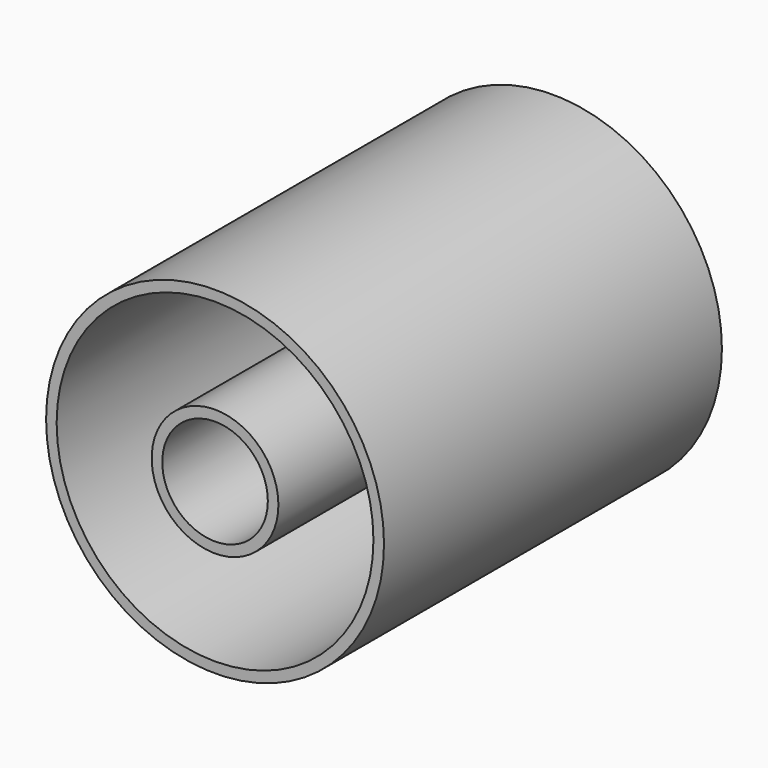
from build123d import *

# Parameters (mm, degrees)
F0_R     = 2032
F0_R_2   = 1905
F0_R_3   = 762
F0_R_4   = 635
F1_DEPTH = 5080


with BuildPart() as f1:
    # F0 (on Front) → F1 (new body)
    with BuildSketch(Plane.XZ):
        Circle(F0_R)
        Circle(F0_R_2, mode=Mode.SUBTRACT)
        Circle(F0_R_3)
        Circle(F0_R_4, mode=Mode.SUBTRACT)
    extrude(amount=F1_DEPTH)


solid = f1.part
